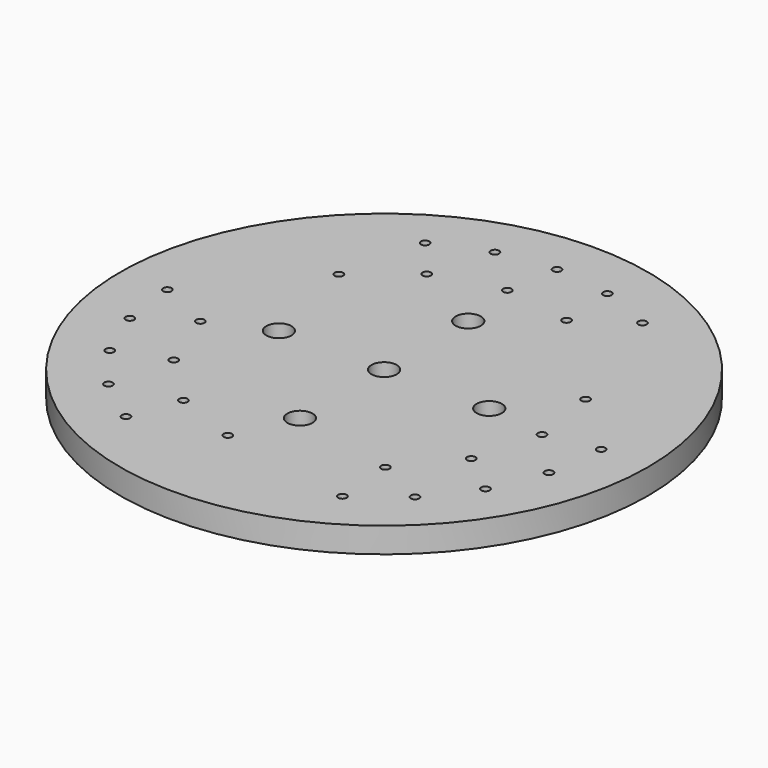
from build123d import *

# Parameters (mm, degrees)
SKETCH_R                          = 125.5
SKETCH_R_2                        = 6
PAD_DEPTH                         = 12
SKETCH001_R                       = 6
POCKET_DEPTH                      = 722.341763
POLARPATTERN_COUNT                = 4
SKETCH003_R                       = 2
POCKET001_DEPTH                   = 722.341763
SKETCH004_R                       = 2
POCKET002_DEPTH                   = 722.341763
SKETCH004_POLARPATTERN002_2_R     = 2
POCKET002_POLARPATTERN002_2_DEPTH = 722.341763
SKETCH004_POLARPATTERN002_3_R     = 2
POCKET002_POLARPATTERN002_3_DEPTH = 722.341763
SKETCH004_POLARPATTERN002_4_R     = 2
POCKET002_POLARPATTERN002_4_DEPTH = 722.341763
SKETCH004_POLARPATTERN002_5_R     = 2
POCKET002_POLARPATTERN002_5_DEPTH = 722.341763
POLARPATTERN003_COUNT             = 3
SKETCH003_POLARPATTERN004_2_R     = 2
POCKET001_POLARPATTERN004_2_DEPTH = 722.341763
SKETCH003_POLARPATTERN004_3_R     = 2
POCKET001_POLARPATTERN004_3_DEPTH = 722.341763
SKETCH003_POLARPATTERN004_4_R     = 2
POCKET001_POLARPATTERN004_4_DEPTH = 722.341763
POLARPATTERN005_COUNT             = 3


with BuildPart() as part:
    # Sketch → Pad (new body)
    with BuildSketch(Plane.XY):
        Circle(SKETCH_R)
        Circle(SKETCH_R_2, mode=Mode.SUBTRACT)
    extrude(amount=PAD_DEPTH)

    # Sketch001 → Pocket (cut, through all)
    with BuildSketch(Plane(origin=(0, 0, 0), x_dir=(-1, 0, 0), z_dir=(0, 0, -1))):
        with Locations((0, 50)):
            Circle(SKETCH001_R)
    pocket = extrude(amount=-POCKET_DEPTH, mode=Mode.SUBTRACT)

    # PolarPattern: Pocket ×4 about axis
    polarpattern_axis = Axis((0, 0, 0), (0, 0, -1))
    for i in range(1, POLARPATTERN_COUNT):
        add(pocket.rotate(polarpattern_axis, i * 360 / POLARPATTERN_COUNT), mode=Mode.SUBTRACT)

    # Sketch003 → Pocket001 (cut, through all)
    with BuildSketch(Plane.XY.offset(12)):
        with Locations((28.131884, 73.286063)):
            Circle(SKETCH003_R)
    pocket001 = extrude(amount=-POCKET001_DEPTH, mode=Mode.SUBTRACT)

    # Sketch004 → Pocket002 (cut, through all)
    with BuildSketch(Plane.XY.offset(12)):
        with Locations((51.453015, 89.227727)):
            Circle(SKETCH004_R)
    pocket002 = extrude(amount=-POCKET002_DEPTH, mode=Mode.SUBTRACT)

    # Sketch004 PolarPattern002 2 → Pocket002 PolarPattern002 2 (cut, through all)
    with BuildSketch(Plane(origin=(0, 0, 12), x_dir=(0.965789, 0.259328, 0), z_dir=(0, 0, 1))):
        with Locations((51.453015, 89.227727)):
            Circle(SKETCH004_POLARPATTERN002_2_R)
    pocket002_polarpattern002_2 = extrude(amount=-POCKET002_POLARPATTERN002_2_DEPTH, mode=Mode.SUBTRACT)

    # Sketch004 PolarPattern002 3 → Pocket002 PolarPattern002 3 (cut, through all)
    with BuildSketch(Plane(origin=(0, 0, 12), x_dir=(0.865498, 0.500912, 0), z_dir=(0, 0, 1))):
        with Locations((51.453015, 89.227727)):
            Circle(SKETCH004_POLARPATTERN002_3_R)
    pocket002_polarpattern002_3 = extrude(amount=-POCKET002_POLARPATTERN002_3_DEPTH, mode=Mode.SUBTRACT)

    # Sketch004 PolarPattern002 4 → Pocket002 PolarPattern002 4 (cut, through all)
    with BuildSketch(Plane(origin=(0, 0, 12), x_dir=(0.705989, 0.708223, 0), z_dir=(0, 0, 1))):
        with Locations((51.453015, 89.227727)):
            Circle(SKETCH004_POLARPATTERN002_4_R)
    pocket002_polarpattern002_4 = extrude(amount=-POCKET002_POLARPATTERN002_4_DEPTH, mode=Mode.SUBTRACT)

    # Sketch004 PolarPattern002 5 → Pocket002 PolarPattern002 5 (cut, through all)
    with BuildSketch(Plane(origin=(0, 0, 12), x_dir=(0.498175, 0.867077, 0), z_dir=(0, 0, 1))):
        with Locations((51.453015, 89.227727)):
            Circle(SKETCH004_POLARPATTERN002_5_R)
    pocket002_polarpattern002_5 = extrude(amount=-POCKET002_POLARPATTERN002_5_DEPTH, mode=Mode.SUBTRACT)

    # PolarPattern003: Pocket002, Pocket002 PolarPattern002 2, Pocket002 PolarPattern002 3, Pocket002 PolarPattern002 4, Pocket002 PolarPattern002 5 ×3 about axis
    polarpattern003_axis = Axis((0, 0, 12), (0, 0, 1))
    for i in range(1, POLARPATTERN003_COUNT):
        add(pocket002.rotate(polarpattern003_axis, i * 360 / POLARPATTERN003_COUNT), mode=Mode.SUBTRACT)
        add(pocket002_polarpattern002_2.rotate(polarpattern003_axis, i * 360 / POLARPATTERN003_COUNT), mode=Mode.SUBTRACT)
        add(pocket002_polarpattern002_3.rotate(polarpattern003_axis, i * 360 / POLARPATTERN003_COUNT), mode=Mode.SUBTRACT)
        add(pocket002_polarpattern002_4.rotate(polarpattern003_axis, i * 360 / POLARPATTERN003_COUNT), mode=Mode.SUBTRACT)
        add(pocket002_polarpattern002_5.rotate(polarpattern003_axis, i * 360 / POLARPATTERN003_COUNT), mode=Mode.SUBTRACT)

    # Sketch003 PolarPattern004 2 → Pocket001 PolarPattern004 2 (cut, through all)
    with BuildSketch(Plane(origin=(0, 0, 12), x_dir=(0.913545, 0.406737, 0), z_dir=(0, 0, 1))):
        with Locations((28.131884, 73.286063)):
            Circle(SKETCH003_POLARPATTERN004_2_R)
    pocket001_polarpattern004_2 = extrude(amount=-POCKET001_POLARPATTERN004_2_DEPTH, mode=Mode.SUBTRACT)

    # Sketch003 PolarPattern004 3 → Pocket001 PolarPattern004 3 (cut, through all)
    with BuildSketch(Plane(origin=(0, 0, 12), x_dir=(0.669131, 0.743145, 0), z_dir=(0, 0, 1))):
        with Locations((28.131884, 73.286063)):
            Circle(SKETCH003_POLARPATTERN004_3_R)
    pocket001_polarpattern004_3 = extrude(amount=-POCKET001_POLARPATTERN004_3_DEPTH, mode=Mode.SUBTRACT)

    # Sketch003 PolarPattern004 4 → Pocket001 PolarPattern004 4 (cut, through all)
    with BuildSketch(Plane(origin=(0, 0, 12), x_dir=(0.309017, 0.951057, 0), z_dir=(0, 0, 1))):
        with Locations((28.131884, 73.286063)):
            Circle(SKETCH003_POLARPATTERN004_4_R)
    pocket001_polarpattern004_4 = extrude(amount=-POCKET001_POLARPATTERN004_4_DEPTH, mode=Mode.SUBTRACT)

    # PolarPattern005: Pocket001, Pocket001 PolarPattern004 2, Pocket001 PolarPattern004 3, Pocket001 PolarPattern004 4 ×3 about axis
    polarpattern005_axis = Axis((0, 0, 12), (0, 0, 1))
    for i in range(1, POLARPATTERN005_COUNT):
        add(pocket001.rotate(polarpattern005_axis, i * 360 / POLARPATTERN005_COUNT), mode=Mode.SUBTRACT)
        add(pocket001_polarpattern004_2.rotate(polarpattern005_axis, i * 360 / POLARPATTERN005_COUNT), mode=Mode.SUBTRACT)
        add(pocket001_polarpattern004_3.rotate(polarpattern005_axis, i * 360 / POLARPATTERN005_COUNT), mode=Mode.SUBTRACT)
        add(pocket001_polarpattern004_4.rotate(polarpattern005_axis, i * 360 / POLARPATTERN005_COUNT), mode=Mode.SUBTRACT)


solid = part.part
